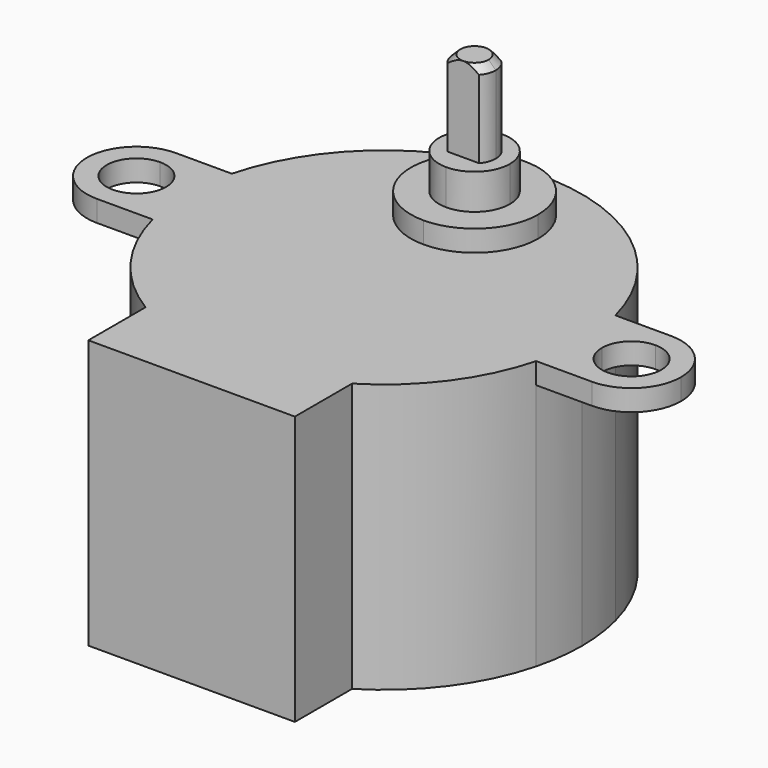
from build123d import *

# Parameters (mm, degrees)
F0_W     = 7.3
F0_H     = 3.5
F1_DEPTH = 19
F2_DEPTH = 1.5
F3_DEPTH = 10
F4_DEPTH = 4
F5_DEPTH = 1.5
F6_SIZE  = 0.5
F8_DEPTH = 6


with BuildPart() as f1:
    # F0 (on Top) → F1 (new body)
    with BuildSketch(Plane.XY):
        with BuildLine():
            ThreePointArc((7.3, -11.9461290802), (11.250406053, -8.3323684294), (13.5554417117, -3.5))
            Line((13.5554417117, -3.5), (7.3, -3.5))
            Line((7.3, -3.5), (7.3, -11.9461290802))
        make_face()
        with BuildLine():
            ThreePointArc((-7.3, -11.9461290802), (0, -14), (7.3, -11.9461290802))
            Line((7.3, -11.9461290802), (7.3, -3.5))
            Line((7.3, -3.5), (-7.3, -3.5))
            Line((-7.3, -3.5), (-7.3, -11.9461290802))
        make_face()
        with BuildLine():
            ThreePointArc((-13.5554417117, -3.5), (-11.250406053, -8.3323684294), (-7.3, -11.9461290802))
            Line((-7.3, -11.9461290802), (-7.3, -3.5))
            Line((-7.3, -3.5), (-13.5554417117, -3.5))
        make_face()
        with BuildLine():
            Line((-13.5554417117, -3.5), (-7.3, -3.5))
            Line((-7.3, -3.5), (-7.3, 0))
            Line((-7.3, 0), (-14, 0))
            ThreePointArc((-14, 0), (-13.8884157477, -1.7640600948), (-13.5554417117, -3.5))
        make_face()
        with BuildLine():
            Line((-14, 0), (-7.3, 0))
            Line((-7.3, 0), (-7.3, 3.5))
            Line((-7.3, 3.5), (-13.5554417117, 3.5))
            ThreePointArc((-13.5554417117, 3.5), (-13.8884157477, 1.7640600948), (-14, 0))
        make_face()
        with BuildLine():
            Line((-7.3, 3.5), (-7.3, 11.9461290802))
            ThreePointArc((-7.3, 11.9461290802), (-11.250406053, 8.3323684294), (-13.5554417117, 3.5))
            Line((-13.5554417117, 3.5), (-7.3, 3.5))
        make_face()
        with BuildLine():
            Line((7.3, 3.5), (7.3, 11.9461290802))
            ThreePointArc((7.3, 11.9461290802), (0, 14), (-7.3, 11.9461290802))
            Line((-7.3, 11.9461290802), (-7.3, 3.5))
            Line((-7.3, 3.5), (0, 3.5))
            Line((0, 3.5), (7.3, 3.5))
        make_face()
        with BuildLine():
            ThreePointArc((4.5, 8), (3.1819805153, 4.8180194847), (0, 3.5))
            ThreePointArc((0, 3.5), (-3.1819805153, 11.1819805153), (4.5, 8))
        make_face(mode=Mode.SUBTRACT)
        with BuildLine():
            Line((7.3, 3.5), (13.5554417117, 3.5))
            ThreePointArc((13.5554417117, 3.5), (11.250406053, 8.3323684294), (7.3, 11.9461290802))
            Line((7.3, 11.9461290802), (7.3, 3.5))
        make_face()
        with BuildLine():
            Line((7.3, 0), (14, 0))
            ThreePointArc((14, 0), (13.8884157477, 1.7640600948), (13.5554417117, 3.5))
            Line((13.5554417117, 3.5), (7.3, 3.5))
            Line((7.3, 3.5), (7.3, 0))
        make_face()
        with BuildLine():
            ThreePointArc((13.5554417117, -3.5), (13.8884157477, -1.7640600948), (14, 0))
            Line((14, 0), (7.3, 0))
            Line((7.3, 0), (7.3, -3.5))
            Line((7.3, -3.5), (13.5554417117, -3.5))
        make_face()
        Polygon((7.3, -3.5), (7.3, 0), (0, 0), (-7.3, 0), (-7.3, -3.5), align=None)
        with Locations((3.65, 1.75)):
            Rectangle(F0_W, F0_H)
        with Locations((-3.65, 1.75)):
            Rectangle(F0_W, F0_H)
        with BuildLine():
            ThreePointArc((4.5, 8), (-3.1819805153, 11.1819805153), (0, 3.5))
            ThreePointArc((0, 3.5), (3.1819805153, 4.8180194847), (4.5, 8))
        make_face()
        with BuildLine():
            ThreePointArc((2.5, 8), (1.767766953, 6.232233047), (0, 5.5))
            ThreePointArc((0, 5.5), (-1.767766953, 9.767766953), (2.5, 8))
        make_face(mode=Mode.SUBTRACT)
        with BuildLine():
            ThreePointArc((2.5, 8), (-1.767766953, 9.767766953), (0, 5.5))
            ThreePointArc((0, 5.5), (1.767766953, 6.232233047), (2.5, 8))
        make_face()
        with BuildLine():
            ThreePointArc((1.5, 8), (1.0606601718, 6.9393398282), (0, 6.5))
            ThreePointArc((0, 6.5), (-1.0606601718, 9.0606601718), (1.5, 8))
        make_face(mode=Mode.SUBTRACT)
        with BuildLine():
            ThreePointArc((1.5, 8), (-1.0606601718, 9.0606601718), (0, 6.5))
            ThreePointArc((0, 6.5), (1.0606601718, 6.9393398282), (1.5, 8))
        make_face()
        with BuildLine():
            Line((7.3, -17), (7.3, -11.9461290802))
            ThreePointArc((7.3, -11.9461290802), (0, -14), (-7.3, -11.9461290802))
            Line((-7.3, -11.9461290802), (-7.3, -17))
            Line((-7.3, -17), (7.3, -17))
        make_face()
    extrude(amount=-F1_DEPTH)

    # F0 (on Top) → F2 (join)
    with BuildSketch(Plane.XY):
        with BuildLine():
            Line((-17.5, 2.1), (-17.5, 3.5))
            ThreePointArc((-17.5, 3.5), (-21, 0), (-17.5, -3.5))
            Line((-17.5, -3.5), (-17.5, -2.1))
            ThreePointArc((-17.5, -2.1), (-19.6, 0), (-17.5, 2.1))
        make_face()
        with BuildLine():
            ThreePointArc((-17.5, -3.5), (-15.0251262658, -2.4748737342), (-14, 0))
            Line((-14, 0), (-15.4, 0))
            ThreePointArc((-15.4, 0), (-16.0150757595, -1.4849242405), (-17.5, -2.1))
            Line((-17.5, -2.1), (-17.5, -3.5))
        make_face()
        with BuildLine():
            Line((-17.5, -3.5), (-13.5554417117, -3.5))
            ThreePointArc((-13.5554417117, -3.5), (-13.8884157477, -1.7640600948), (-14, 0))
            ThreePointArc((-14, 0), (-15.0251262658, -2.4748737342), (-17.5, -3.5))
        make_face()
        with BuildLine():
            Line((-15.4, 0), (-14, 0))
            ThreePointArc((-14, 0), (-15.0251262658, 2.4748737342), (-17.5, 3.5))
            Line((-17.5, 3.5), (-17.5, 2.1))
            ThreePointArc((-17.5, 2.1), (-16.0150757595, 1.4849242405), (-15.4, 0))
        make_face()
        with BuildLine():
            ThreePointArc((-14, 0), (-13.8884157477, 1.7640600948), (-13.5554417117, 3.5))
            Line((-13.5554417117, 3.5), (-17.5, 3.5))
            ThreePointArc((-17.5, 3.5), (-15.0251262658, 2.4748737342), (-14, 0))
        make_face()
        with BuildLine():
            ThreePointArc((13.5554417117, 3.5), (13.8884157477, 1.7640600948), (14, 0))
            ThreePointArc((14, 0), (15.0251262658, 2.4748737342), (17.5, 3.5))
            Line((17.5, 3.5), (13.5554417117, 3.5))
        make_face()
        with BuildLine():
            ThreePointArc((17.5, -3.5), (15.0251262658, -2.4748737342), (14, 0))
            ThreePointArc((14, 0), (13.8884157477, -1.7640600948), (13.5554417117, -3.5))
            Line((13.5554417117, -3.5), (17.5, -3.5))
        make_face()
        with BuildLine():
            ThreePointArc((21, 0), (19.9748737342, 2.4748737342), (17.5, 3.5))
            Line((17.5, 3.5), (17.5, 2.1))
            ThreePointArc((17.5, 2.1), (18.9849242405, 1.4849242405), (19.6, 0))
            ThreePointArc((19.6, 0), (18.9849242405, -1.4849242405), (17.5, -2.1))
            Line((17.5, -2.1), (17.5, -3.5))
            ThreePointArc((17.5, -3.5), (19.9748737342, -2.4748737342), (21, 0))
        make_face()
        with BuildLine():
            Line((15.4, 0), (14, 0))
            ThreePointArc((14, 0), (15.0251262658, -2.4748737342), (17.5, -3.5))
            Line((17.5, -3.5), (17.5, -2.1))
            ThreePointArc((17.5, -2.1), (16.0150757595, -1.4849242405), (15.4, 0))
        make_face()
        with BuildLine():
            ThreePointArc((17.5, 3.5), (15.0251262658, 2.4748737342), (14, 0))
            Line((14, 0), (15.4, 0))
            ThreePointArc((15.4, 0), (16.0150757595, 1.4849242405), (17.5, 2.1))
            Line((17.5, 2.1), (17.5, 3.5))
        make_face()
    extrude(amount=-F2_DEPTH)

    # F0 (on Top) → F3 (join)
    with BuildSketch(Plane.XY):
        with BuildLine():
            ThreePointArc((1.5, 8), (-1.0606601718, 9.0606601718), (0, 6.5))
            ThreePointArc((0, 6.5), (1.0606601718, 6.9393398282), (1.5, 8))
        make_face()
    extrude(amount=F3_DEPTH)

    # F0 (on Top) → F4 (join)
    with BuildSketch(Plane.XY):
        with BuildLine():
            ThreePointArc((2.5, 8), (-1.767766953, 9.767766953), (0, 5.5))
            ThreePointArc((0, 5.5), (1.767766953, 6.232233047), (2.5, 8))
        make_face()
        with BuildLine():
            ThreePointArc((1.5, 8), (1.0606601718, 6.9393398282), (0, 6.5))
            ThreePointArc((0, 6.5), (-1.0606601718, 9.0606601718), (1.5, 8))
        make_face(mode=Mode.SUBTRACT)
    extrude(amount=F4_DEPTH)

    # F0 (on Top) → F5 (join)
    with BuildSketch(Plane.XY):
        with BuildLine():
            ThreePointArc((4.5, 8), (-3.1819805153, 11.1819805153), (0, 3.5))
            ThreePointArc((0, 3.5), (3.1819805153, 4.8180194847), (4.5, 8))
        make_face()
        with BuildLine():
            ThreePointArc((2.5, 8), (1.767766953, 6.232233047), (0, 5.5))
            ThreePointArc((0, 5.5), (-1.767766953, 9.767766953), (2.5, 8))
        make_face(mode=Mode.SUBTRACT)
    extrude(amount=F5_DEPTH)

    # F6
    f6_edges = [f1.edges().sort_by_distance(p)[0] for p in [
        (0, 9.5, 10),
    ]]
    chamfer(f6_edges, length=F6_SIZE)

    # F7 (on face) → F8 (cut)
    with BuildSketch(Plane.XY.offset(10)):
        Polygon((0, 9), (1.5, 9), (1.5, 9.5), (-1.5, 9.5), (-1.5, 9), align=None)
        Polygon((1.5, 6.5), (1.5, 7), (0, 7), (-1.5, 7), (-1.5, 6.5), align=None)
    extrude(amount=-F8_DEPTH, mode=Mode.SUBTRACT)


solid = f1.part
